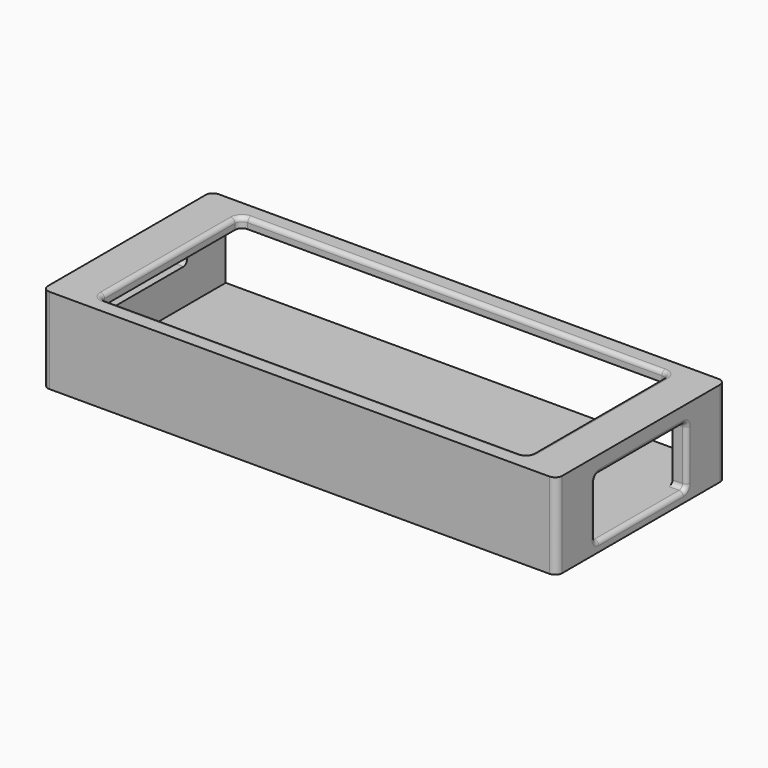
from build123d import *

# Parameters (mm, degrees)
SKETCH_W        = 180
SKETCH_H        = 74
PAD_DEPTH       = 30
SKETCH001_W     = 170
SKETCH001_H     = 23
POCKET_DEPTH    = 71
SKETCH002_W     = 40
SKETCH002_H     = 12.5
POCKET001_DEPTH = 5
SKETCH003_W     = 40
SKETCH003_H     = 8
POCKET002_DEPTH = 200
SKETCH004_W     = 150
SKETCH004_H     = 62
POCKET003_DEPTH = 5
SKETCH005_W     = 100
SKETCH005_H     = 10
POCKET004_DEPTH = 1.7
SKETCH006_R     = 6
POCKET005_DEPTH = 5
FILLET_R        = 2.5
FILLET001_R     = 1.5
FILLET002_R     = 2.5
FILLET003_R     = 1.5


with BuildPart() as part:
    # Sketch → Pad (new body)
    with BuildSketch(Plane.XY):
        Rectangle(SKETCH_W, SKETCH_H)
    extrude(amount=PAD_DEPTH)

    # Sketch001 (on Face3 of Pad) → Pocket (cut)
    with BuildSketch(Plane(origin=(0, 37, 0), x_dir=(-1, 0, 0), z_dir=(0, 1, 0))):
        with Locations((0, 15)):
            Rectangle(SKETCH001_W, SKETCH001_H)
    extrude(amount=-POCKET_DEPTH, mode=Mode.SUBTRACT)

    # Sketch002 (on Face3 of Pocket) → Pocket001 (cut)
    with BuildSketch(Plane.YZ.offset(90)):
        with Locations((0, 9.75)):
            Rectangle(SKETCH002_W, SKETCH002_H)
    extrude(amount=-POCKET001_DEPTH, mode=Mode.SUBTRACT)

    # Sketch003 (on Face2 of Pocket001) → Pocket002 (cut)
    with BuildSketch(Plane(origin=(-90, 0, 0), x_dir=(0, -1, 0), z_dir=(-1, 0, 0))):
        with Locations((0, 20)):
            Rectangle(SKETCH003_W, SKETCH003_H)
    extrude(amount=-POCKET002_DEPTH, mode=Mode.SUBTRACT)

    # Sketch004 (on Face5 of Pocket002) → Pocket003 (cut)
    with BuildSketch(Plane.XY.offset(30)):
        Rectangle(SKETCH004_W, SKETCH004_H)
    extrude(amount=-POCKET003_DEPTH, mode=Mode.SUBTRACT)

    # Sketch005 (on Face4 of Pocket003) → Pocket004 (cut)
    with BuildSketch(Plane(origin=(0, 0, 0), x_dir=(1, 0, 0), z_dir=(0, 0, -1))):
        with Locations((-30, 22)):
            Rectangle(SKETCH005_W, SKETCH005_H)
    extrude(amount=-POCKET004_DEPTH, mode=Mode.SUBTRACT)

    # Sketch006 → Pocket005 (cut)
    with BuildSketch(Plane.XY.offset(3.5)):
        with Locations((21.5, -4.5)):
            Circle(SKETCH006_R)
    extrude(amount=-POCKET005_DEPTH, mode=Mode.SUBTRACT)

    # Fillet
    fillet_edges = [part.edges().sort_by_distance(p)[0] for p in [
        (90, 37, 15),
        (90, -37, 15),
        (-90, 37, 15),
        (-90, -37, 15),
    ]]
    fillet(fillet_edges, radius=FILLET_R)

    # Fillet001
    fillet001_edges = [part.edges().sort_by_distance(p)[0] for p in [
        (87.5, 20, 24),
        (87.5, -20, 24),
        (87.5, -20, 3.5),
        (87.5, 20, 3.5),
        (90, 0, 24),
        (90, 20, 13.75),
        (90, 0, 3.5),
        (90, -20, 13.75),
        (-90, 20, 20),
        (-90, 0, 16),
        (-90, 0, 24),
        (-90, -20, 20),
        (-87.5, 20, 24),
        (-87.5, -20, 24),
        (-87.5, -20, 16),
        (-87.5, 20, 16),
    ]]
    fillet(fillet001_edges, radius=FILLET001_R)

    # Fillet002
    fillet002_edges = [part.edges().sort_by_distance(p)[0] for p in [
        (-75, 31, 28.25),
        (-75, -31, 28.25),
        (75, 31, 28.25),
        (75, -31, 28.25),
    ]]
    fillet(fillet002_edges, radius=FILLET002_R)

    # Fillet003
    fillet003_edges = [part.edges().sort_by_distance(p)[0] for p in [
        (-75, 0, 30),
        (0, 31, 30),
        (75, 0, 30),
        (0, -31, 30),
    ]]
    fillet(fillet003_edges, radius=FILLET003_R)


solid = part.part
